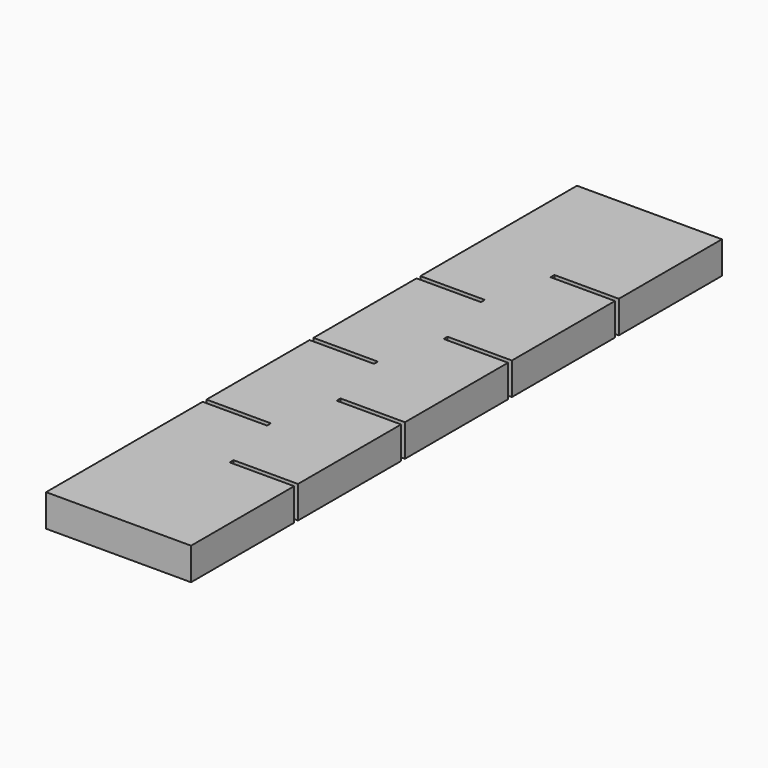
from build123d import *

# Parameters (mm, degrees)
F1_DEPTH = 10


with BuildPart() as f1:
    # F0 (on Top) → F1 (new body)
    with BuildSketch(Plane.XY):
        Polygon((0, 60.75), (0, 0), (45, 0), (45, 40), (25, 40), (25, 41.5), (45, 41.5), (45, 81.5), (25, 81.5), (25, 83), (45, 83), (45, 123), (25, 123), (25, 124.5), (45, 124.5), (45, 164.5), (25, 164.5), (25, 166), (45, 166), (45, 206), (0, 206), (0, 145.25), (20, 145.25), (20, 143.75), (0, 143.75), (0, 103.75), (20, 103.75), (20, 102.25), (0, 102.25), (0, 62.25), (20, 62.25), (20, 60.75), align=None)
    extrude(amount=F1_DEPTH)


solid = f1.part
